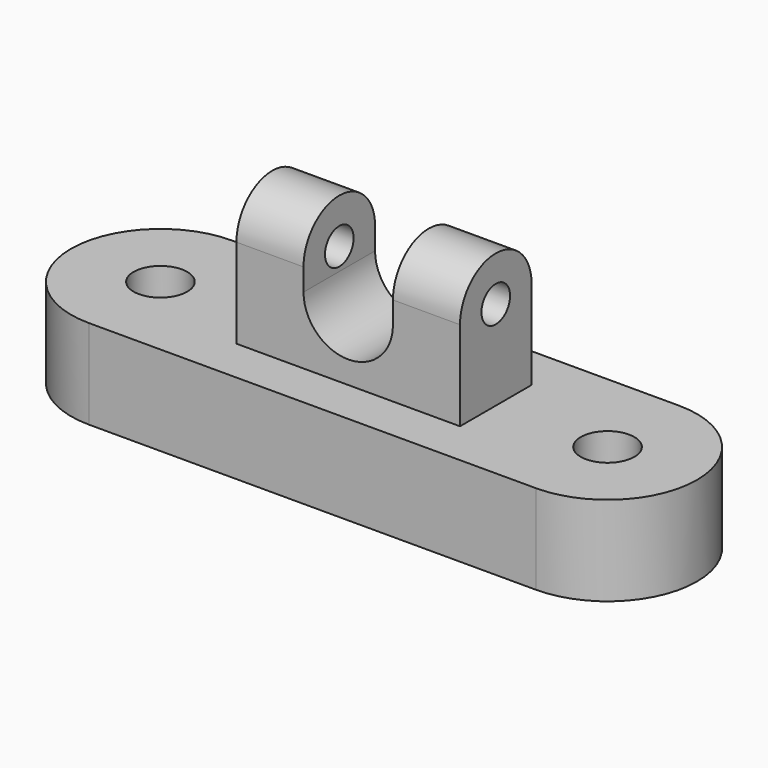
from build123d import *

# Parameters (mm, degrees)
F0_R     = 7.62
F1_DEPTH = 25.4
F2_R     = 5.08
F3_DEPTH = 31.75
F4_W     = 25.4
F4_H     = 16.951743
F5_DEPTH = 25.4


with BuildPart() as f1:
    # F0 (on Top) → F1 (new body)
    with BuildSketch(Plane.XY):
        with BuildLine():
            Line((63.5, 25.4), (-63.5, 25.4))
            ThreePointArc((-63.5, 25.4), (-88.9, 0), (-63.5, -25.4))
            Line((-63.5, -25.4), (63.5, -25.4))
            ThreePointArc((63.5, -25.4), (88.9, 0), (63.5, 25.4))
        make_face()
        with Locations((-63.5, 0)):
            Circle(F0_R, mode=Mode.SUBTRACT)
        with Locations((63.5, 0)):
            Circle(F0_R, mode=Mode.SUBTRACT)
    extrude(amount=F1_DEPTH)


with BuildPart() as f3:
    # F2 (on Right) → F3 (new body, symmetric)
    with BuildSketch(Plane.YZ):
        with BuildLine():
            Line((-12.7, 50.8), (-12.7, 25.4))
            Line((-12.7, 25.4), (12.7, 25.4))
            Line((12.7, 25.4), (12.7, 50.8))
            ThreePointArc((12.7, 50.8), (0, 63.5), (-12.7, 50.8))
        make_face()
        with Locations((0, 50.8)):
            Circle(F2_R, mode=Mode.SUBTRACT)
    extrude(amount=F3_DEPTH, both=True)

    # F4 (on face) → F5 (cut)
    with BuildSketch(Plane(origin=(0, 12.7, 0), x_dir=(-1, 0, 0), z_dir=(0, 1, 0))):
        with BuildLine():
            Line((-12.7, 50.8), (-12.7, 44.488117))
            ThreePointArc((-12.7, 44.488117), (0, 31.788117), (12.7, 44.488117))
            Line((12.7, 44.488117), (12.7, 50.8))
            Line((12.7, 50.8), (-12.7, 50.8))
        make_face()
        with Locations((0, 59.275871)):
            Rectangle(F4_W, F4_H)
    extrude(amount=-F5_DEPTH, mode=Mode.SUBTRACT)


solid = Compound([f1.part, f3.part])
